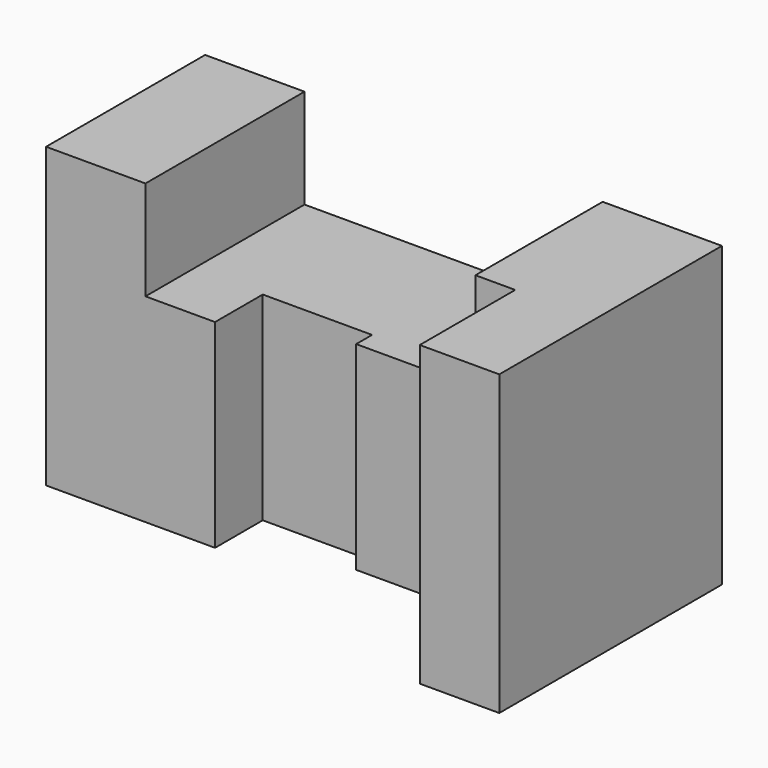
from build123d import *

# Parameters (mm, degrees)
F0_W     = 25
F0_H     = 50
F1_DEPTH = 75
F3_DEPTH = 50
F5_DEPTH = 75


with BuildPart() as f1:
    # F0 (on Top) → F1 (new body)
    with BuildSketch(Plane.XY):
        with Locations((12.5, 25)):
            Rectangle(F0_W, F0_H)
    extrude(amount=F1_DEPTH)

    # F2 (on Top) → F3 (join)
    with BuildSketch(Plane.XY):
        Polygon((25, 50), (25, 0), (42.5, 0), (42.5, 15), (70, 15), (70, 10), (100, 10), (100, 40), (100, 50), (90, 50), align=None)
    extrude(amount=F3_DEPTH)

    # F4 (on face) → F5 (join)
    with BuildSketch(Plane(origin=(0, 0, 0), x_dir=(1, 0, 0), z_dir=(0, 0, -1))):
        Polygon((110, -10), (100, -10), (100, -50), (130, -50), (130, 20), (110, 20), align=None)
    extrude(amount=-F5_DEPTH)


solid = f1.part
